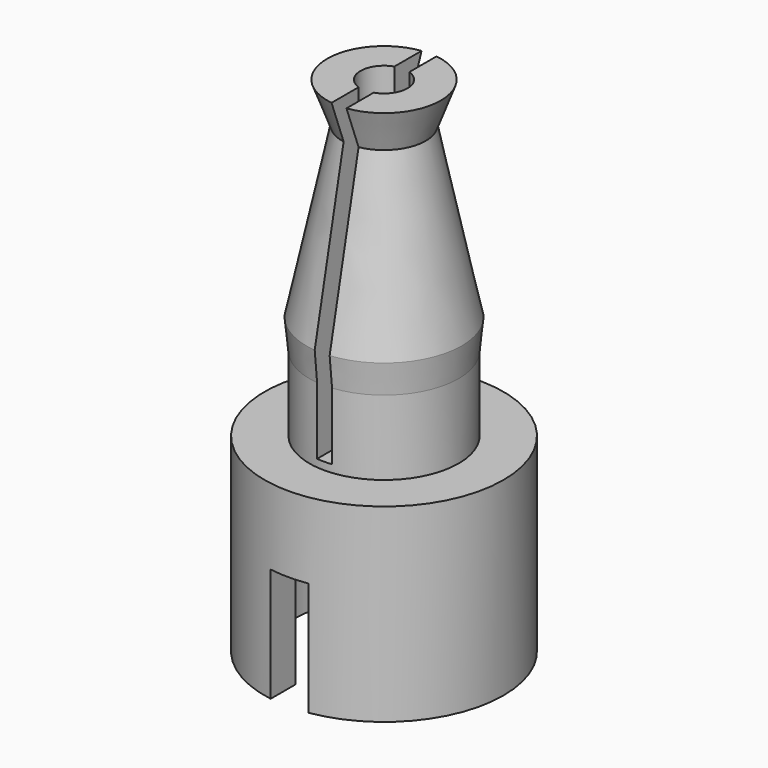
from build123d import *

# Parameters (mm, degrees)
SKETCH001_R          = 2.9845
POCKET_DEPTH         = 5.588
SKETCH002_R          = 0.7874
POCKET001_DEPTH      = 16.851
SKETCH004_W          = 0.5
SKETCH004_H          = 12.688059
SKETCH004_H_2        = 6.122161
POCKET003_DEPTH      = 5.0038
POCKET003_DEPTH_BACK = -5.0038
SKETCH005_W          = 1.27
SKETCH005_H          = 12.7
POCKET004_DEPTH      = 25.4
POCKET004_DEPTH_BACK = -23.7998


with BuildPart() as part:
    # Sketch → Revolution (revolve)
    with BuildSketch(Plane.XZ):
        Polygon((2.5, 0), (4, 0), (4, -6.35), (0, -6.35), (0, 0), (0, 10.5), (1.9, 10.5), (1.4, 9.15), (2.6, 3.5), (2.5, 2.5), align=None)
    revolve(axis=Axis((0, 0, 0), (0, 0, 1)))

    # Sketch001 (on Face5 of Revolution) → Pocket (cut)
    with BuildSketch(Plane(origin=(0, 0, -6.35), x_dir=(1, 0, 0), z_dir=(0, 0, -1))):
        Circle(SKETCH001_R)
    extrude(amount=-POCKET_DEPTH, mode=Mode.SUBTRACT)

    # Sketch002 (on Face6 of Pocket) → Pocket001 (cut, through all)
    with BuildSketch(Plane(origin=(0, 0, 10.5), x_dir=(-1, 0, 0), z_dir=(0, 0, 1))):
        Circle(SKETCH002_R)
    extrude(amount=-POCKET001_DEPTH, mode=Mode.SUBTRACT)

    # Sketch004 → Pocket003 (cut, two sides)
    with BuildSketch(Plane.XZ) as pocket003_sk:
        with Locations((0, 6.598029)):
            Rectangle(SKETCH004_W, SKETCH004_H)
        with Locations((0, -13.475635)):
            Rectangle(SKETCH004_W, SKETCH004_H_2)
    extrude(amount=-POCKET003_DEPTH, mode=Mode.SUBTRACT)
    extrude(pocket003_sk.sketch, amount=-POCKET003_DEPTH_BACK, mode=Mode.SUBTRACT)

    # Sketch005 → Pocket004 (cut, two sides)
    with BuildSketch(Plane.XZ) as pocket004_sk:
        with Locations((0, -8.89)):
            Rectangle(SKETCH005_W, SKETCH005_H)
    extrude(amount=-POCKET004_DEPTH, mode=Mode.SUBTRACT)
    extrude(pocket004_sk.sketch, amount=-POCKET004_DEPTH_BACK, mode=Mode.SUBTRACT)


solid = part.part
